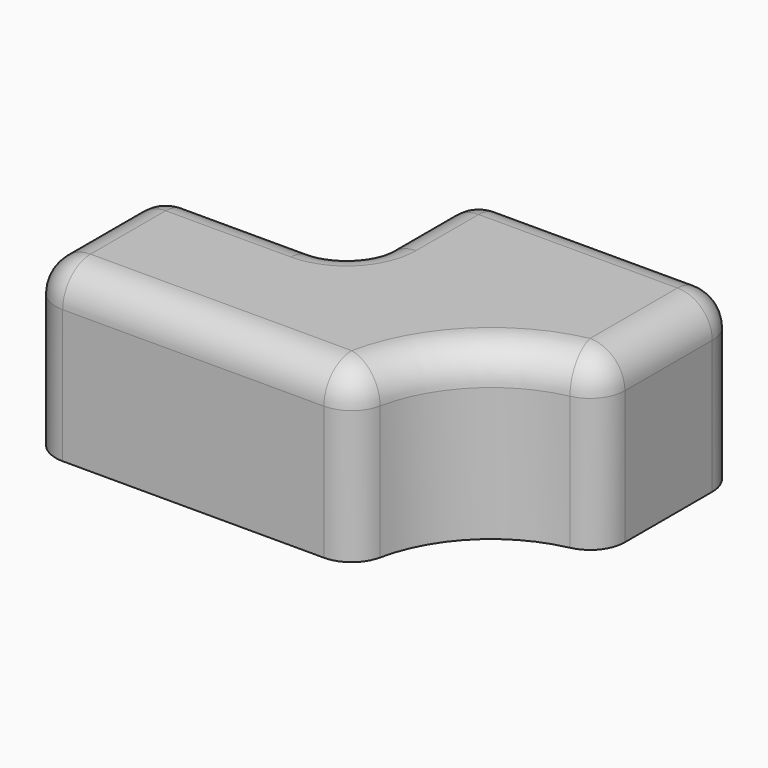
from build123d import *

# Parameters (mm, degrees)
F1_DEPTH = 307.34
F2_R     = 63.5
F3_R     = 63.5
F4_T     = -12.7


with BuildPart() as f1:
    # F0 (on Top) → F1 (new body)
    with BuildSketch(Plane.XY):
        with BuildLine():
            Line((649.227738, 191.499934), (158.845842, 191.499934))
            Line((158.845842, 191.499934), (158.845842, -78.352302))
            Line((158.845842, -78.352302), (-197.068691, -78.352302))
            Line((-197.068691, -78.352302), (-197.068691, -377.061605))
            Line((-197.068691, -377.061605), (400.637456, -377.061605))
            ThreePointArc((400.637456, -377.061605), (473.447864, -201.281731), (649.227738, -128.471323))
            Line((649.227738, -128.471323), (649.227738, 191.499934))
        make_face()
    extrude(amount=F1_DEPTH)

    # F2
    f2_edges = [f1.edges().sort_by_distance(p)[0] for p in [
        (158.845842, 191.499934, 153.67),
        (158.845842, -78.352302, 153.67),
        (-197.068691, -78.352302, 153.67),
        (-197.068691, -377.061605, 153.67),
        (649.227738, -128.471323, 153.67),
        (400.637456, -377.061605, 153.67),
        (649.227738, 191.499934, 153.67),
    ]]
    fillet(f2_edges, radius=F2_R)

    # F3
    f3_edges = [f1.edges().sort_by_distance(p)[0] for p in [
        (473.447864, -201.281731, 307.34),
        (383.739621, -362.819492, 307.34),
        (634.985625, -111.573488, 307.34),
        (105.048558, -377.061605, 307.34),
        (649.227738, 28.25013, 307.34),
        (-178.469972, -358.462886, 307.34),
        (630.629019, 172.901214, 307.34),
        (-197.068691, -227.706954, 307.34),
        (404.03679, 191.499934, 307.34),
        (-178.469972, -96.951022, 307.34),
        (177.444561, 172.901214, 307.34),
        (-19.111425, -78.352302, 307.34),
        (158.845842, 56.573816, 307.34),
        (140.247122, -59.753583, 307.34),
    ]]
    fillet(f3_edges, radius=F3_R)

    # F4
    f4_openings = [f1.faces().sort_by_distance(p)[0] for p in [
        (250.443823, -109.892421, 0),
    ]]
    offset(amount=F4_T, openings=f4_openings)


solid = f1.part
